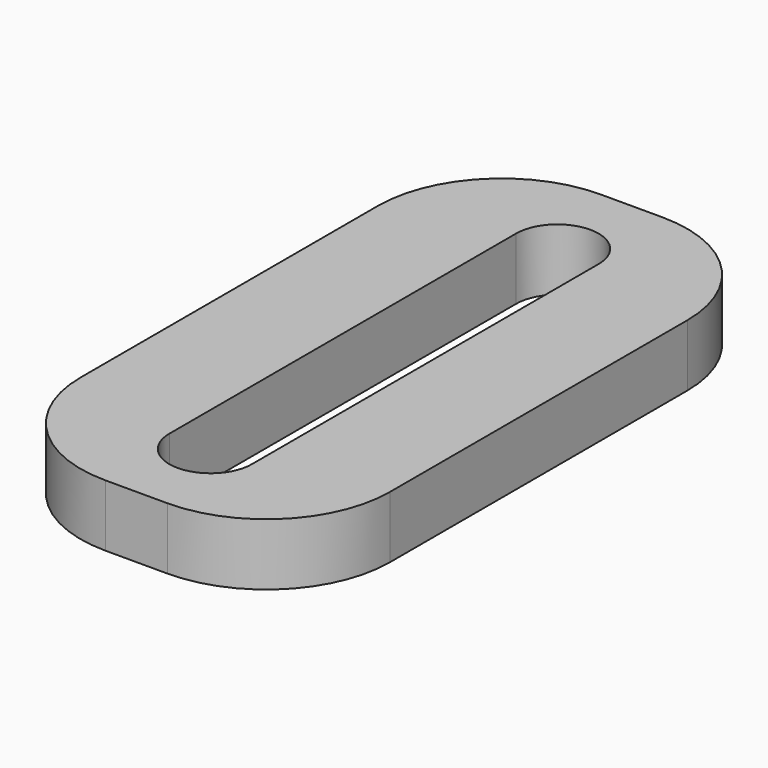
from build123d import *

# Parameters (mm, degrees)
F0_W     = 15
F0_H     = 30
F1_DEPTH = 3
F2_R     = 6


with BuildPart() as f1:
    # F0 (on Top) → F1 (new body)
    with BuildSketch(Plane.XY):
        with Locations((7.5, 15)):
            Rectangle(F0_W, F0_H)
        with BuildLine():
            ThreePointArc((5.5, 25.5), (7.5, 27.5), (9.5, 25.5))
            Line((9.5, 25.5), (9.5, 4.5))
            ThreePointArc((9.5, 4.5), (7.5, 2.5), (5.5, 4.5))
            Line((5.5, 4.5), (5.5, 25.5))
        make_face(mode=Mode.SUBTRACT)
    extrude(amount=F1_DEPTH)

    # F2
    f2_edges = [f1.edges().sort_by_distance(p)[0] for p in [
        (15, 0, 1.5),
        (0, 0, 1.5),
        (15, 30, 1.5),
        (0, 30, 1.5),
    ]]
    fillet(f2_edges, radius=F2_R)


solid = f1.part
